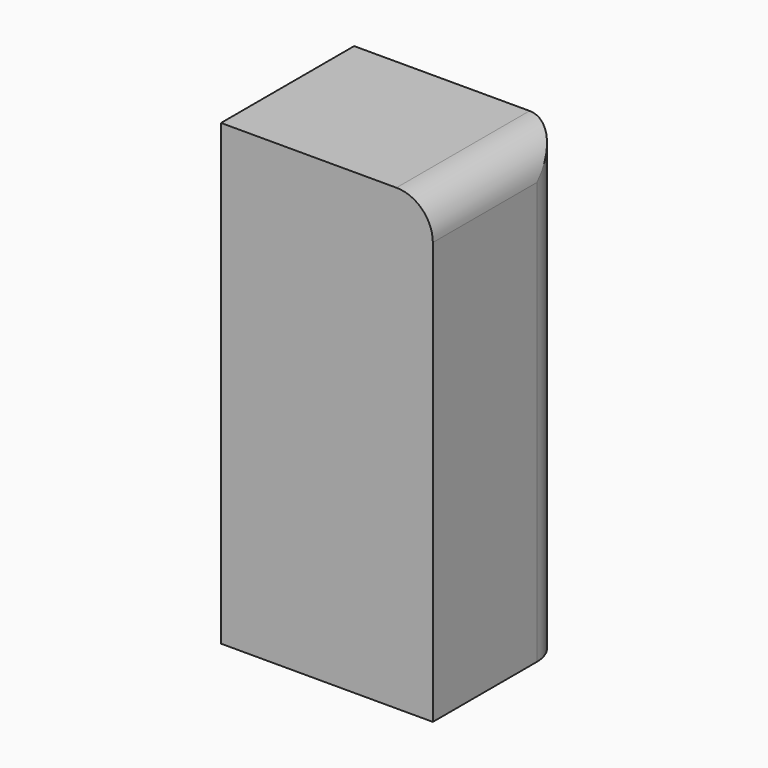
from build123d import *

# Parameters (mm, degrees)
F0_W     = 29.565643
F0_H     = 23.225147
F1_DEPTH = 63.985465
F2_R     = 5.08


with BuildPart() as f1:
    # F0 (on Top) → F1 (new body)
    with BuildSketch(Plane.XY):
        with Locations((34.68758, 11.612573)):
            Rectangle(F0_W, F0_H)
    extrude(amount=-F1_DEPTH)

    # F2
    f2_edges = [f1.edges().sort_by_distance(p)[0] for p in [
        (49.470402, 23.225147, -31.992733),
        (49.470402, 11.612574, 0),
    ]]
    fillet(f2_edges, radius=F2_R)


solid = f1.part
